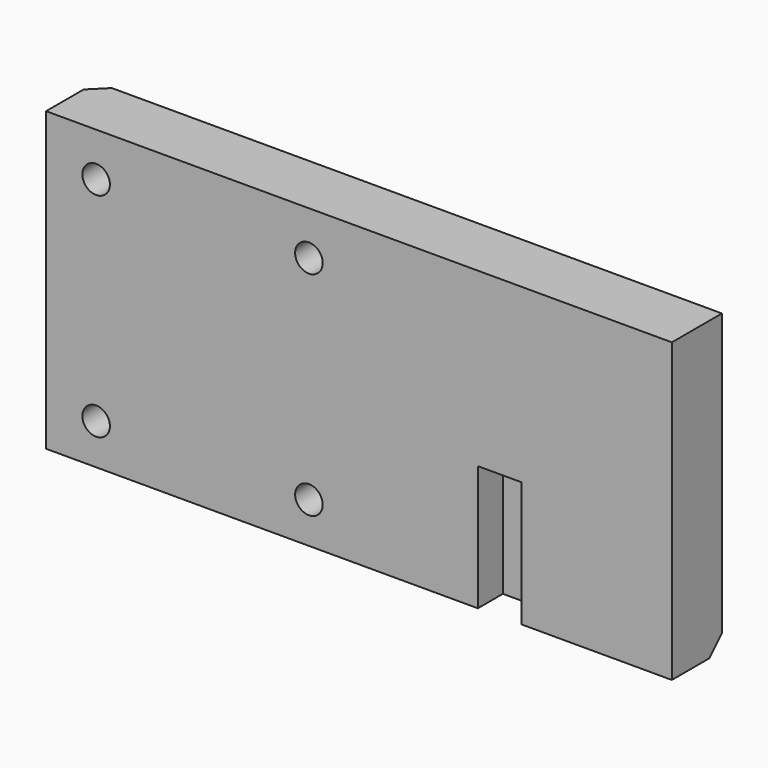
from build123d import *

# Parameters (mm, degrees)
F0_W     = 100
F0_H     = 47.5
F1_DEPTH = 10
F3_D     = 4.4
F2_W     = 7
F2_H     = 20
F4_DEPTH = 5
F5_SIZE  = 2.5


with BuildPart() as f1:
    # F0 (on Front) → F1 (new body)
    with BuildSketch(Plane.XZ):
        with Locations((50, 21.25)):
            Rectangle(F0_W, F0_H)
    extrude(amount=F1_DEPTH)

    # F3 (through all)
    with Locations(Plane.XZ.offset(10)):
        with Locations((8, 38), (42, 38), (42, 4), (8, 4)):
            Hole(F3_D / 2)

    # F2 (on face) → F4 (cut)
    with BuildSketch(Plane.XZ.offset(10)):
        with Locations((72.5, 7.5)):
            Rectangle(F2_W, F2_H)
    extrude(amount=-F4_DEPTH, mode=Mode.SUBTRACT)

    # F5
    f5_edges = [f1.edges().sort_by_distance(p)[0] for p in [
        (0, 0, 21.25),
        (50, 0, -2.5),
    ]]
    chamfer(f5_edges, length=F5_SIZE)


solid = f1.part
